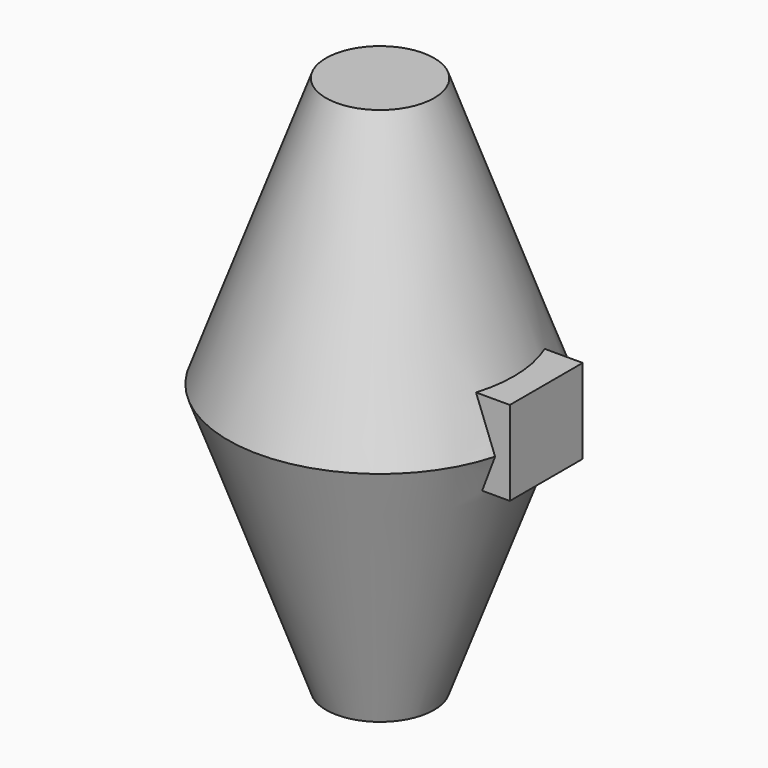
from build123d import *

# Parameters (mm, degrees)
F0_R     = 71.7358501893
F1_DEPTH = 127
F1_TAPER = 20
F2_W     = 42.9366435856
F2_H     = 39.848241955
F3_DEPTH = 76.2


with BuildPart() as f1:
    # F0 (on Top) → F1 (new body, symmetric)
    with BuildSketch(Plane.XY):
        Circle(F0_R)
    extrude(amount=F1_DEPTH, both=True, taper=F1_TAPER)

    # F2 (on Right) → F3 (join)
    with BuildSketch(Plane.YZ):
        with Locations((2.7034999803, 3.7947259843)):
            Rectangle(F2_W, F2_H)
    extrude(amount=F3_DEPTH)


solid = f1.part
